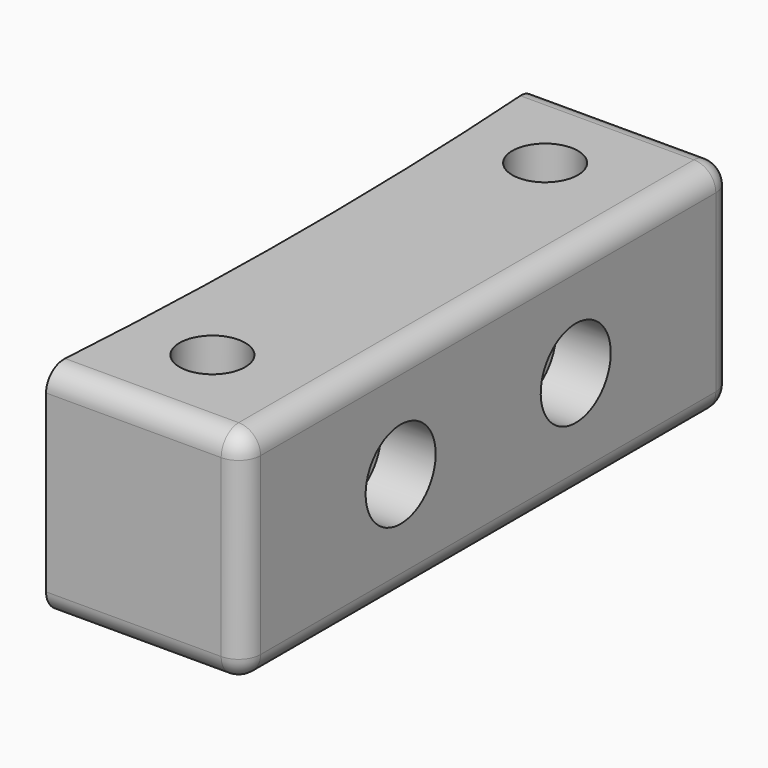
from build123d import *

# Parameters (mm, degrees)
CYLINDER001_R     = 4
CYLINDER001_DEPTH = 5
CYLINDER_R        = 4
CYLINDER_DEPTH    = 5
SKETCH002_R       = 2
PAD002_DEPTH      = 18
SKETCH001_R       = 2
PAD001_DEPTH      = 18
SKETCH_R          = 3
PAD_DEPTH         = 20
FILLET_R          = 2


with BuildPart() as cylinder001:
    # Cylinder001 → Cylinder001 (new body)
    with BuildSketch(Plane(origin=(18, 38, 10), x_dir=(0, 0, 1), z_dir=(-1, 0, 0))):
        Circle(CYLINDER001_R)
    extrude(amount=CYLINDER001_DEPTH)


with BuildPart() as cylinder:
    # Cylinder → Cylinder (new body)
    with BuildSketch(Plane(origin=(18, 18, 10), x_dir=(0, 0, 1), z_dir=(-1, 0, 0))):
        Circle(CYLINDER_R)
    extrude(amount=CYLINDER_DEPTH)


with BuildPart() as body002:
    # Sketch002 → Pad002 (new body)
    with BuildSketch(Plane.YZ):
        with Locations((18, 10)):
            Circle(SKETCH002_R)
    extrude(amount=PAD002_DEPTH)


with BuildPart() as body002_1:
    # Body002 placement: moved
    add(body002.part.moved(Location((0, 20, 0))))


with BuildPart() as body001:
    # Sketch001 → Pad001 (new body)
    with BuildSketch(Plane.YZ):
        with Locations((18, 10)):
            Circle(SKETCH001_R)
    extrude(amount=PAD001_DEPTH)


with BuildPart() as fillet_body:
    # Sketch → Pad (new body)
    with BuildSketch(Plane.XY):
        with BuildLine():
            Line((0, 0), (18, 0))
            Line((18, 0), (18, 56))
            Line((18, 56), (0, 56))
            add(Edge.make_bspline(
                [(0, 0), (2, 28), (0, 56)],
                knots=[0, 0, 0, 1, 1, 1], degree=2))
        make_face()
        with Locations((8, 47)):
            Circle(SKETCH_R, mode=Mode.SUBTRACT)
        with Locations((8, 9)):
            Circle(SKETCH_R, mode=Mode.SUBTRACT)
    extrude(amount=PAD_DEPTH)

    # Boolean: cut Body002, Body001
    add(body002_1.part, mode=Mode.SUBTRACT)
    add(body001.part, mode=Mode.SUBTRACT)

    # Cut: cut Cylinder
    add(cylinder.part, mode=Mode.SUBTRACT)

    # Cut001: cut Cylinder001
    add(cylinder001.part, mode=Mode.SUBTRACT)

    # Fillet
    fillet_edges = [fillet_body.edges().sort_by_distance(p)[0] for p in [
        (18, 0, 10),
        (9, 0, 0),
        (9, 0, 20),
        (18, 28, 0),
        (18, 28, 20),
        (18, 56, 10),
        (9, 56, 0),
        (9, 56, 20),
    ]]
    fillet(fillet_edges, radius=FILLET_R)


solid = fillet_body.part
